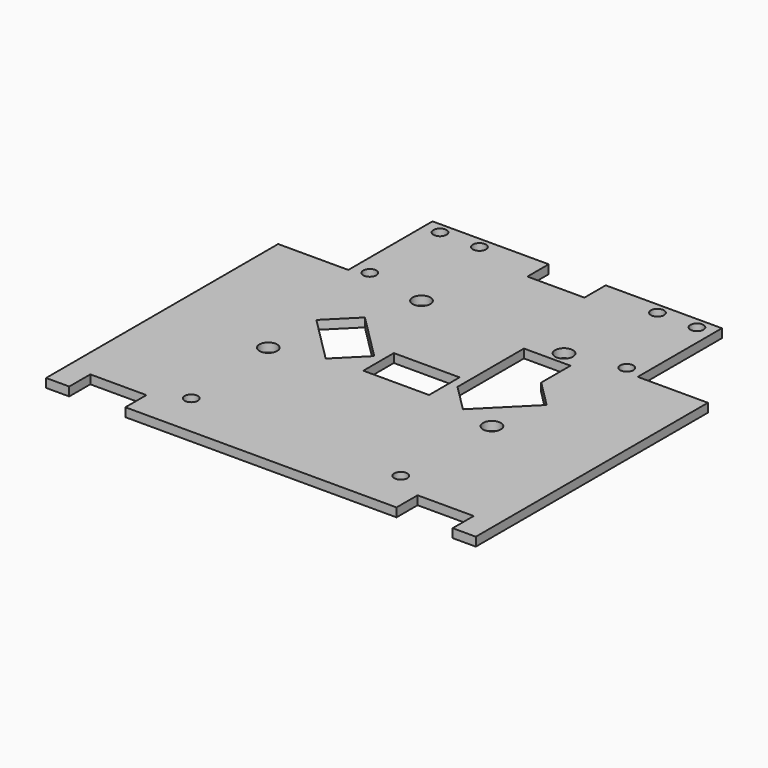
from build123d import *

# Parameters (mm, degrees)
F0_R     = 1.5
F0_R_2   = 2.03
F0_W     = 15
F0_H     = 8.7
F1_DEPTH = 2


with BuildPart() as f1:
    # F0 (on Top) → F1 (new body)
    with BuildSketch(Plane.XY):
        Polygon((41.615864, -42.761541), (46.897838, -42.761541), (46.897838, 23.388459), (30.897838, 23.388459), (30.897838, 47.388459), (4.397838, 47.388459), (4.397838, 41.317214), (-8.602162, 41.317214), (-8.602162, 47.388459), (-35.102162, 47.388459), (-35.102162, 23.388459), (-51.102162, 23.388459), (-51.102162, -42.761541), (-45.820188, -42.761541), (-45.820188, -36.761541), (-33.020188, -36.761541), (-33.020188, -42.761541), (28.815864, -42.761541), (28.815864, -36.761541), (41.615864, -36.761541), align=None)
        with Locations((-26.002162, -32.761541)):
            Circle(F0_R, mode=Mode.SUBTRACT)
        with Locations((-27.493694, -8.936541)):
            Circle(F0_R_2, mode=Mode.SUBTRACT)
        with Locations((21.797838, -32.761541)):
            Circle(F0_R, mode=Mode.SUBTRACT)
        with Locations((-1.243694, -0.936335)):
            Rectangle(F0_W, F0_H, mode=Mode.SUBTRACT)
        with Locations((22.506306, -7.686541)):
            Circle(F0_R_2, mode=Mode.SUBTRACT)
        Polygon((-21.34608, 10.93288), (-10.739479, 0.326279), (-16.891308, -5.82555), (-27.497909, 4.781051), align=None, mode=Mode.SUBTRACT)
        with Locations((-17.493694, 22.238665)):
            Circle(F0_R_2, mode=Mode.SUBTRACT)
        with Locations((-31.402162, 24.888459)):
            Circle(F0_R, mode=Mode.SUBTRACT)
        with Locations((-31.402162, 44.888459)):
            Circle(F0_R, mode=Mode.SUBTRACT)
        with Locations((-22.402162, 44.888459)):
            Circle(F0_R, mode=Mode.SUBTRACT)
        Polygon((14.40392, -5.82555), (8.252091, 0.326279), (8.252091, 19.263665), (18.858692, 19.263665), (18.858692, 10.93288), (25.010521, 4.781051), align=None, mode=Mode.SUBTRACT)
        with Locations((15.006306, 22.238665)):
            Circle(F0_R_2, mode=Mode.SUBTRACT)
        with Locations((18.197838, 44.888459)):
            Circle(F0_R, mode=Mode.SUBTRACT)
        with Locations((27.197838, 24.888459)):
            Circle(F0_R, mode=Mode.SUBTRACT)
        with Locations((27.197838, 44.888459)):
            Circle(F0_R, mode=Mode.SUBTRACT)
    extrude(amount=F1_DEPTH)


solid = f1.part
